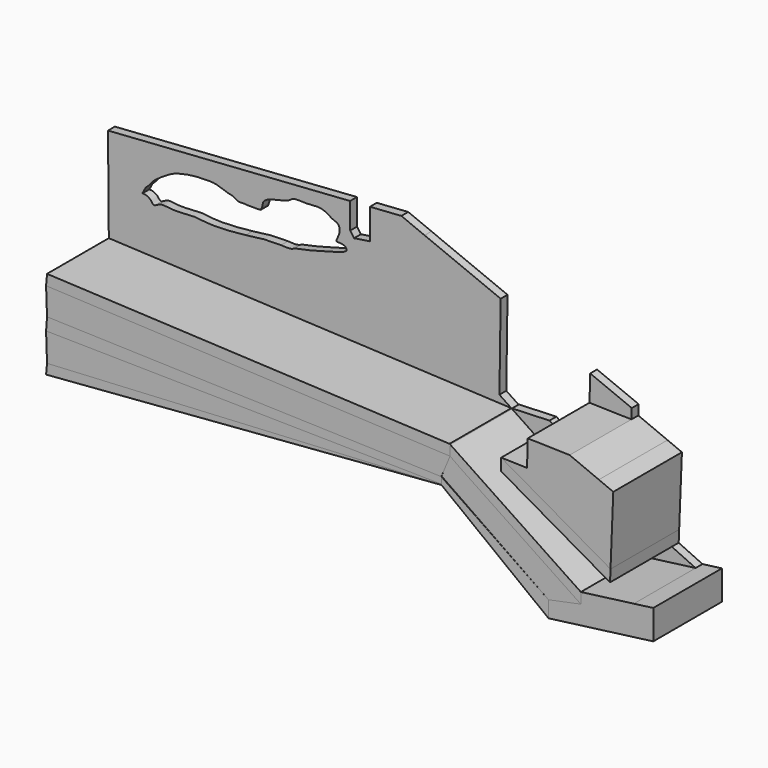
from build123d import *

# Parameters (mm, degrees)
F2_DEPTH = 2.54
F3_DEPTH = 25.4
F4_DEPTH = 25.4
F5_DEPTH = 25.4
F6_DEPTH = 25.4
F7_DEPTH = 25.4
F8_DEPTH = 25.4
F9_DEPTH = 25.4


with BuildPart() as f2:
    # F1 (on Front) → F2 (new body)
    with BuildSketch(Plane.XZ):
        Polygon((-75.9395807981, -35.5362684962), (43.2126186788, -41.0881893211), (39.6913095639, -38.7350070814), (40.0536553935, -13.6012235172), (17.5370398812, -4.3918604475), (10.6546273111, -1.5769331278), (1.3436772861, -2.2200768364), (1.3436772861, -11.2180095166), (-3.3487246837, -11.9446478784), (-4.4877594337, -10.3271948174), (-4.5330250478, -2.6260036347), (-76.1799983317, -7.5749401003), align=None)
        with BuildLine():
            add(Edge.make_bspline(
                [(-66.0144165158, -20.6524990499), (-65.7447688221, -20.6362292817), (-65.0893175233, -20.5966812308), (-63.4011300364, -21.3880853714), (-62.7211117666, -23.1300616873), (-60.6563493888, -21.3008974775), (-57.5856960421, -22.1484542791), (-52.7200535467, -21.8399065527), (-50.3376359025, -21.5913797584), (-45.6421812362, -22.4859495763), (-38.5439520838, -21.9393578463), (-35.3969931602, -21.5618535876)],
                knots=[0, 0, 0, 0, 0.0162182121, 0.03942273, 0.059445562, 0.0835861488, 0.1144778568, 0.1522164501, 0.1785182165, 0.2154033297, 0.2710300921, 0.2710300921, 0.2710300921, 0.2710300921], degree=3))
            add(Edge.make_bspline(
                [(-66.0144165158, -20.6524990499), (-65.8346687754, -20.3363578767), (-65.654921035, -20.0202167034), (-65.4751732945, -19.7040755302)],
                knots=[0, 0, 0, 0, 1.0910043192, 1.0910043192, 1.0910043192, 1.0910043192], degree=3))
            add(Edge.make_bspline(
                [(-37.4765023589, -13.5172829032), (-37.9651500114, -13.3724704926), (-39.0910887848, -12.521418484), (-40.7148424551, -12.4241464161), (-44.1774993458, -10.8580960742), (-47.7469821934, -10.9955769984), (-50.9342916454, -11.0500276912), (-55.7879620791, -11.9755286432), (-58.5542548518, -13.3276716897), (-62.9442245613, -16.2124442833), (-63.5841784395, -17.6101363453), (-65.0523055179, -18.6936323968), (-65.3639227785, -19.3857793438), (-65.4751732945, -19.7040755302)],
                knots=[0.0499860107, 0.0499860107, 0.0499860107, 0.0499860107, 0.1165606817, 0.1804999277, 0.2761731991, 0.3702283148, 0.4605054966, 0.5688333557, 0.6610224539, 0.7722713424, 0.8346001177, 0.8993507591, 0.9508599689, 0.9508599689, 0.9508599689, 0.9508599689], degree=3))
            add(Edge.make_bspline(
                [(-36.4724472165, -13.5172829032), (-36.7910300454, -13.5716473828), (-37.1096128743, -13.6260118624), (-37.4765023589, -13.5172829032)],
                knots=[0, 0, 0, 0, 0.0499860107, 0.0499860107, 0.0499860107, 0.0499860107], degree=3))
            add(Edge.make_bspline(
                [(-30.9606529772, -13.5172829032), (-31.0879745562, -13.5627755579), (-31.9141861458, -13.6438669397), (-33.2897382857, -13.584429224), (-34.9613470136, -13.6698880256), (-35.9041004236, -13.5078065462), (-36.0034378015, -13.5206507187), (-36.2807973954, -13.5186590829), (-36.4724472165, -13.5172829032)],
                knots=[0.9073843052, 0.9073843052, 0.9073843052, 0.9073843052, 0.9232075265, 0.9442405282, 0.9671607119, 0.9829838985, 0.988242221, 1, 1, 1, 1], degree=3))
            add(Edge.make_bspline(
                [(-8.5397958755, -14.3580650911), (-8.637601772, -14.01768561), (-7.2778006188, -12.0780786534), (-7.7542537931, -9.4938009197), (-10.0462000987, -9.0330212983), (-10.5290707793, -8.4023002118), (-13.4096250382, -6.8993403789), (-16.6660760009, -7.7162362423), (-21.5345194114, -7.0534230417), (-22.5984108349, -8.7210362807), (-25.7191280706, -9.16512128), (-26.8737253757, -9.6156684928), (-29.0452531025, -10.0909884532), (-30.3859018922, -11.1874827895), (-30.3941837838, -12.3310298265), (-30.8529446387, -13.4231402736), (-30.9103371918, -13.4993048144), (-30.9606529772, -13.5172829032)],
                knots=[0.554476293, 0.554476293, 0.554476293, 0.554476293, 0.5810977929, 0.6076480968, 0.6317580763, 0.6471803733, 0.6762024306, 0.7090455826, 0.7454797624, 0.7683201585, 0.797619682, 0.8176840265, 0.8429492365, 0.8646483023, 0.8831415723, 0.9011311798, 0.9073843052, 0.9073843052, 0.9073843052, 0.9073843052], degree=3))
            add(Edge.make_bspline(
                [(-20.9912610222, -20.330348604), (-19.6872959585, -20.1059692944), (-16.0761265907, -19.3131081509), (-10.8467979722, -17.8492309133), (-7.2048022263, -16.868833743), (-5.1136117259, -15.9158271855), (-6.1682253657, -14.5632464267), (-7.7817523952, -14.5453076076), (-8.48767128, -14.5394666573), (-8.5397958755, -14.3580650911)],
                knots=[0.3733505427, 0.3733505427, 0.3733505427, 0.3733505427, 0.3990478297, 0.4431488427, 0.4771291925, 0.4994552547, 0.5178264553, 0.5402886523, 0.554476293, 0.554476293, 0.554476293, 0.554476293], degree=3))
            add(Edge.make_bspline(
                [(-24.9309411219, -20.7673563349), (-23.623529814, -20.8746017701), (-21.9089478749, -21.0359237512), (-20.9912610222, -20.330348604)],
                knots=[0.1592382066, 0.1592382066, 0.1592382066, 0.1592382066, 0.2594496968, 0.2594496968, 0.2594496968, 0.2594496968], degree=3))
            add(Edge.make_bspline(
                [(-35.3969931602, -21.5618535876), (-33.0182940399, -21.2765085705), (-29.8922232703, -20.7131202508), (-26.5163706359, -20.8328768709), (-24.9309411217, -20.7673563277)],
                knots=[0.2710300921, 0.2710300921, 0.2710300921, 0.2710300921, 0.3130768218, 0.3466520524, 0.3466520524, 0.3466520524, 0.3466520524], degree=3))
        make_face(mode=Mode.SUBTRACT)
    extrude(amount=F2_DEPTH)


with BuildPart() as f2b:
    # F1 (on Front) → F2, piece 2 (new body)
    with BuildSketch(Plane.XZ):
        Polygon((82.0796936751, -67.0618563889), (97.7742969991, -65.0066137313), (90.7190218569, -61.746429652), (58.4182813764, -43.2547181845), (54.5135065913, -40.6578034163), (43.4315963593, -41.0798497192), (43.4280598169, -41.2321619868), align=None)
    extrude(amount=F2_DEPTH)


with BuildPart() as f2c:
    # F1 (on Front) → F2, piece 3 (new body)
    with BuildSketch(Plane.XZ):
        Polygon((66.3556205179, -32.1383414705), (78.7682905793, -32.4610732496), (78.8606753134, -29.4734106984), (66.5557615891, -24.4406641931), align=None)
    extrude(amount=F2_DEPTH)


with BuildPart() as f3:
    # F1 (on Front) → F3 (new body)
    with BuildSketch(Plane.XZ):
        Polygon((90.8602854007, -58.2368624827), (91.6812624183, -37.8404182892), (87.4143689871, -36.0628962517), (78.7682905793, -32.4610732496), (66.3556205179, -32.1383414705), (66.153499105, -39.9121851788), (58.5038982693, -39.7132941043), align=None)
    extrude(amount=F3_DEPTH)


with BuildPart() as f4:
    # F1 (on Front) → F4 (new body)
    with BuildSketch(Plane.XZ):
        Polygon((-76.2194469571, -38.7350070815), (-75.9395807981, -46.7394799352), (40.8275795716, -50.4353190995), (40.8275795716, -50.2786114812), (41.5791692127, -48.4884053749), (43.3556044359, -44.2571267486), (43.2126186788, -44.2571267486), align=None)
    extrude(amount=F4_DEPTH)


with BuildPart() as f5:
    # F1 (on Front) → F5 (new body)
    with BuildSketch(Plane.XZ):
        Polygon((40.8753246491, -50.3116405101), (72.5144609455, -72.1989219612), (73.3824430708, -72.0203272423), (82.0796936751, -70.2307938163), (50.64182051, -49.2218331218), (46.9272195944, -46.7394799352), (43.3578230828, -44.2571267486), (43.3556044359, -44.2571267486), (41.5791692127, -48.4884053749), align=None)
    extrude(amount=F5_DEPTH)


with BuildPart() as f6:
    # F1 (on Front) → F6 (new body)
    with BuildSketch(Plane.XZ):
        Polygon((-75.9395807981, -58.8624589145), (40.8275795716, -52.5383734534), (40.8275795716, -52.3781898479), (-76.2194469571, -50.5108088255), align=None)
    extrude(amount=F6_DEPTH)


with BuildPart() as f7:
    # F1 (on Front) → F7 (new body)
    with BuildSketch(Plane.XZ):
        Polygon((-76.2194469571, -61.8839263917), (40.8275795716, -52.5959296441), (40.8275795716, -52.5383734534), (-75.9395807981, -58.8624589145), align=None)
    extrude(amount=F7_DEPTH)


with BuildPart() as f7b:
    # F1 (on Front) → F7, piece 2 (new body)
    with BuildSketch(Plane.XZ):
        Polygon((-75.9395807981, -46.7394799352), (-76.2194469571, -50.5108088255), (40.8275795716, -52.3781898479), (40.8275795716, -50.4353190995), align=None)
    extrude(amount=F7_DEPTH)


with BuildPart() as f7c:
    # F1 (on Front) → F7, piece 3 (new body)
    with BuildSketch(Plane.XZ):
        Polygon((43.3578230828, -44.2571267486), (43.4280598169, -41.2321619868), (43.2126186788, -41.0881893211), (-75.9395807981, -35.5362684962), (-76.2194469571, -38.7350070815), (43.2126186788, -44.2571267486), (43.3556044359, -44.2571267486), align=None)
    extrude(amount=F7_DEPTH)


with BuildPart() as f8:
    # F1 (on Front) → F8 (new body)
    with BuildSketch(Plane.XZ):
        Polygon((40.8275795716, -52.5959296441), (72.5144609455, -77.0287681371), (72.5144609455, -73.0264203811), (72.5144609455, -72.1989219612), (43.1330775626, -52.0188117153), (40.8275795716, -50.4353190995), (40.8275795716, -52.3781898479), (40.8275795716, -52.5383734534), align=None)
    extrude(amount=F8_DEPTH)


with BuildPart() as f8b:
    # F1 (on Front) → F8, piece 2 (new body)
    with BuildSketch(Plane.XZ):
        Polygon((82.0796936751, -70.2307938163), (82.0796936751, -67.0618563889), (43.4280598169, -41.2321619868), (43.3578230828, -44.2571267486), (46.9272195944, -46.7394799352), (50.64182051, -49.2218331218), align=None)
    extrude(amount=F8_DEPTH)


with BuildPart() as f8c:
    # F1 (on Front) → F8, piece 3 (new body)
    with BuildSketch(Plane.XZ):
        Polygon((58.4182813764, -43.2547181845), (90.7190218569, -61.746429652), (90.8602854007, -58.2368624827), (58.5038982693, -39.7132941043), align=None)
    extrude(amount=F8_DEPTH)


with BuildPart() as f9:
    # F1 (on Front) → F9 (new body)
    with BuildSketch(Plane.XZ):
        Polygon((72.5144609455, -73.0264203811), (72.5144609455, -77.0287681371), (103.5198234022, -72.9685480588), (103.5198234022, -70.2307938163), (103.5198234022, -64.2542244729), (97.7742969991, -65.0066137313), (82.0796936751, -67.0618563889), (82.0796936751, -70.2307938163), (73.3824430708, -72.0203272423), (72.5144609455, -72.1989219612), align=None)
    extrude(amount=F9_DEPTH)


solid = Compound([f2.part, f2b.part, f2c.part, f3.part, f4.part, f5.part, f6.part, f7.part, f7b.part, f7c.part, f8.part, f8b.part, f8c.part, f9.part])
